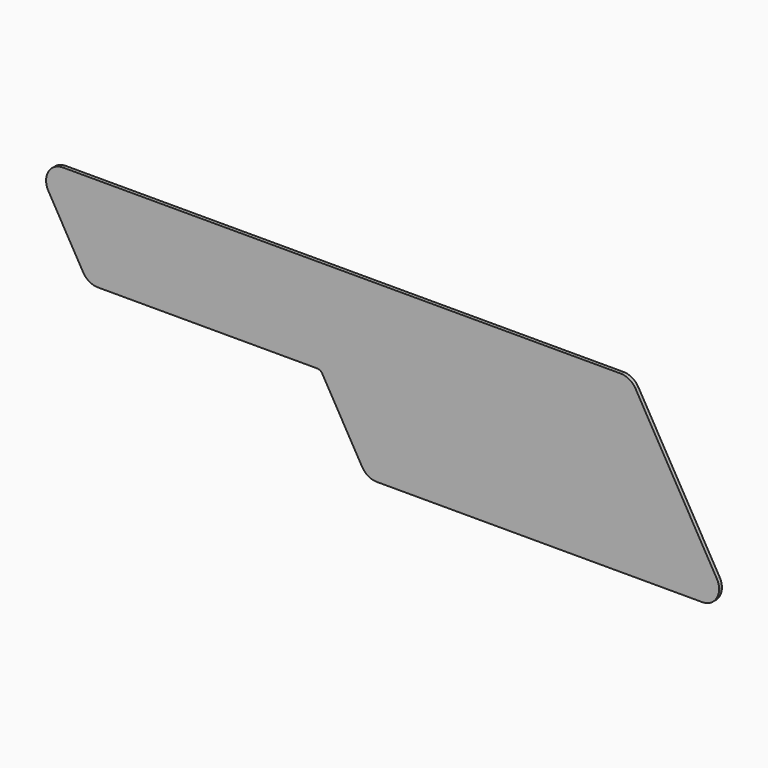
from build123d import *

# Parameters (mm, degrees)
F0_R     = 9.4
F1_DEPTH = 3
F2_R     = 9.4
F3_DEPTH = 3
F4_R     = 5


with BuildPart() as f1:
    # F0 (on Front) → F1 (new body)
    with BuildSketch(Plane.XZ):
        Circle(F0_R)
        with Locations((9.9, -17.147303)):
            Circle(F0_R)
        with Locations((19.8, -34.294606)):
            Circle(F0_R)
        with Locations((29.7, -51.441909)):
            Circle(F0_R)
        with Locations((19.8, 0)):
            Circle(F0_R)
        with Locations((29.7, -17.147303)):
            Circle(F0_R)
        with Locations((39.6, -34.294606)):
            Circle(F0_R)
        with Locations((49.5, -51.441909)):
            Circle(F0_R)
        with Locations((39.6, 0)):
            Circle(F0_R)
        with Locations((49.5, -17.147303)):
            Circle(F0_R)
        with Locations((59.4, -34.294606)):
            Circle(F0_R)
        with Locations((69.3, -51.441909)):
            Circle(F0_R)
        with Locations((59.4, 0)):
            Circle(F0_R)
        with Locations((69.3, -17.147303)):
            Circle(F0_R)
        with Locations((79.2, -34.294606)):
            Circle(F0_R)
        with Locations((89.1, -51.441909)):
            Circle(F0_R)
        with Locations((79.2, 0)):
            Circle(F0_R)
        with Locations((89.1, -17.147303)):
            Circle(F0_R)
        with Locations((99, -34.294606)):
            Circle(F0_R)
        with Locations((108.9, -51.441909)):
            Circle(F0_R)
        with Locations((99, 0)):
            Circle(F0_R)
        with Locations((108.9, -17.147303)):
            Circle(F0_R)
        with Locations((118.8, -34.294606)):
            Circle(F0_R)
        with Locations((128.7, -51.441909)):
            Circle(F0_R)
        with Locations((118.8, 0)):
            Circle(F0_R)
        with Locations((128.7, -17.147303)):
            Circle(F0_R)
        with Locations((138.6, -34.294606)):
            Circle(F0_R)
        with Locations((148.5, -51.441909)):
            Circle(F0_R)
        with Locations((138.6, 0)):
            Circle(F0_R)
        with Locations((148.5, -17.147303)):
            Circle(F0_R)
        with Locations((158.4, -34.294606)):
            Circle(F0_R)
        with Locations((168.3, -51.441909)):
            Circle(F0_R)
        with Locations((158.4, 0)):
            Circle(F0_R)
        with Locations((168.3, -17.147303)):
            Circle(F0_R)
        with Locations((178.2, -34.294606)):
            Circle(F0_R)
        with Locations((188.1, -51.441909)):
            Circle(F0_R)
        with Locations((178.2, 0)):
            Circle(F0_R)
        with Locations((188.1, -17.147303)):
            Circle(F0_R)
        with Locations((198, -34.294606)):
            Circle(F0_R)
        with Locations((207.9, -51.441909)):
            Circle(F0_R)
        with Locations((198, 0)):
            Circle(F0_R)
        with Locations((207.9, -17.147303)):
            Circle(F0_R)
        with Locations((217.8, -34.294606)):
            Circle(F0_R)
        with Locations((227.7, -51.441909)):
            Circle(F0_R)
        with Locations((217.8, 0)):
            Circle(F0_R)
        with Locations((227.7, -17.147303)):
            Circle(F0_R)
        with Locations((237.6, -34.294606)):
            Circle(F0_R)
        with Locations((247.5, -51.441909)):
            Circle(F0_R)
        with Locations((237.6, 0)):
            Circle(F0_R)
        with Locations((247.5, -17.147303)):
            Circle(F0_R)
        with Locations((257.4, -34.294606)):
            Circle(F0_R)
        with Locations((267.3, -51.441909)):
            Circle(F0_R)
        with Locations((257.4, 0)):
            Circle(F0_R)
        with Locations((267.3, -17.147303)):
            Circle(F0_R)
        with Locations((277.2, -34.294606)):
            Circle(F0_R)
        with Locations((287.1, -51.441909)):
            Circle(F0_R)
        with Locations((277.2, 0)):
            Circle(F0_R)
        with Locations((287.1, -17.147303)):
            Circle(F0_R)
        with Locations((297, -34.294606)):
            Circle(F0_R)
        with Locations((306.9, -51.441909)):
            Circle(F0_R)
        with Locations((297, 0)):
            Circle(F0_R)
        with Locations((306.9, -17.147303)):
            Circle(F0_R)
        with Locations((316.8, -34.294606)):
            Circle(F0_R)
        with Locations((326.7, -51.441909)):
            Circle(F0_R)
        with Locations((316.8, 0)):
            Circle(F0_R)
        with Locations((326.7, -17.147303)):
            Circle(F0_R)
        with Locations((336.6, -34.294606)):
            Circle(F0_R)
        with Locations((346.5, -51.441909)):
            Circle(F0_R)
        with Locations((336.6, 0)):
            Circle(F0_R)
        with Locations((346.5, -17.147303)):
            Circle(F0_R)
        with Locations((356.4, -34.294606)):
            Circle(F0_R)
        with Locations((366.3, -51.441909)):
            Circle(F0_R)
        with Locations((356.4, 0)):
            Circle(F0_R)
        with Locations((366.3, -17.147303)):
            Circle(F0_R)
        with Locations((376.2, -34.294606)):
            Circle(F0_R)
        with Locations((386.1, -51.441909)):
            Circle(F0_R)
        with Locations((376.2, 0)):
            Circle(F0_R)
        with Locations((386.1, -17.147303)):
            Circle(F0_R)
        with Locations((396, -34.294606)):
            Circle(F0_R)
        with Locations((405.9, -51.441909)):
            Circle(F0_R)
        with Locations((396, 0)):
            Circle(F0_R)
        with Locations((405.9, -17.147303)):
            Circle(F0_R)
        with Locations((415.8, -34.294606)):
            Circle(F0_R)
        with Locations((425.7, -51.441909)):
            Circle(F0_R)
        with Locations((415.8, 0)):
            Circle(F0_R)
        with Locations((425.7, -17.147303)):
            Circle(F0_R)
        with Locations((435.6, -34.294606)):
            Circle(F0_R)
        with Locations((445.5, -51.441909)):
            Circle(F0_R)
        with Locations((435.6, 0)):
            Circle(F0_R)
        with Locations((445.5, -17.147303)):
            Circle(F0_R)
        with Locations((455.4, -34.294606)):
            Circle(F0_R)
        with Locations((465.3, -51.441909)):
            Circle(F0_R)
        with Locations((455.4, 0)):
            Circle(F0_R)
        with Locations((465.3, -17.147303)):
            Circle(F0_R)
        with Locations((475.2, -34.294606)):
            Circle(F0_R)
        with Locations((485.1, -51.441909)):
            Circle(F0_R)
        with Locations((475.2, 0)):
            Circle(F0_R)
        with Locations((485.1, -17.147303)):
            Circle(F0_R)
        with Locations((495, -34.294606)):
            Circle(F0_R)
        with Locations((504.9, -51.441909)):
            Circle(F0_R)
        with Locations((237.6, -68.589212)):
            Circle(F0_R)
        with Locations((247.5, -85.736515)):
            Circle(F0_R)
        with Locations((257.4, -102.883818)):
            Circle(F0_R)
        with Locations((267.3, -120.031121)):
            Circle(F0_R)
        with Locations((257.4, -68.589212)):
            Circle(F0_R)
        with Locations((267.3, -85.736515)):
            Circle(F0_R)
        with Locations((277.2, -102.883818)):
            Circle(F0_R)
        with Locations((287.1, -120.031121)):
            Circle(F0_R)
        with Locations((277.2, -68.589212)):
            Circle(F0_R)
        with Locations((287.1, -85.736515)):
            Circle(F0_R)
        with Locations((297, -102.883818)):
            Circle(F0_R)
        with Locations((306.9, -120.031121)):
            Circle(F0_R)
        with Locations((297, -68.589212)):
            Circle(F0_R)
        with Locations((306.9, -85.736515)):
            Circle(F0_R)
        with Locations((316.8, -102.883818)):
            Circle(F0_R)
        with Locations((326.7, -120.031121)):
            Circle(F0_R)
        with Locations((316.8, -68.589212)):
            Circle(F0_R)
        with Locations((326.7, -85.736515)):
            Circle(F0_R)
        with Locations((336.6, -102.883818)):
            Circle(F0_R)
        with Locations((346.5, -120.031121)):
            Circle(F0_R)
        with Locations((336.6, -68.589212)):
            Circle(F0_R)
        with Locations((346.5, -85.736515)):
            Circle(F0_R)
        with Locations((356.4, -102.883818)):
            Circle(F0_R)
        with Locations((366.3, -120.031121)):
            Circle(F0_R)
        with Locations((356.4, -68.589212)):
            Circle(F0_R)
        with Locations((366.3, -85.736515)):
            Circle(F0_R)
        with Locations((376.2, -102.883818)):
            Circle(F0_R)
        with Locations((386.1, -120.031121)):
            Circle(F0_R)
        with Locations((376.2, -68.589212)):
            Circle(F0_R)
        with Locations((386.1, -85.736515)):
            Circle(F0_R)
        with Locations((396, -102.883818)):
            Circle(F0_R)
        with Locations((405.9, -120.031121)):
            Circle(F0_R)
        with Locations((396, -68.589212)):
            Circle(F0_R)
        with Locations((405.9, -85.736515)):
            Circle(F0_R)
        with Locations((415.8, -102.883818)):
            Circle(F0_R)
        with Locations((425.7, -120.031121)):
            Circle(F0_R)
        with Locations((415.8, -68.589212)):
            Circle(F0_R)
        with Locations((425.7, -85.736515)):
            Circle(F0_R)
        with Locations((435.6, -102.883818)):
            Circle(F0_R)
        with Locations((445.5, -120.031121)):
            Circle(F0_R)
        with Locations((435.6, -68.589212)):
            Circle(F0_R)
        with Locations((445.5, -85.736515)):
            Circle(F0_R)
        with Locations((455.4, -102.883818)):
            Circle(F0_R)
        with Locations((465.3, -120.031121)):
            Circle(F0_R)
        with Locations((455.4, -68.589212)):
            Circle(F0_R)
        with Locations((465.3, -85.736515)):
            Circle(F0_R)
        with Locations((475.2, -102.883818)):
            Circle(F0_R)
        with Locations((485.1, -120.031121)):
            Circle(F0_R)
        with Locations((475.2, -68.589212)):
            Circle(F0_R)
        with Locations((485.1, -85.736515)):
            Circle(F0_R)
        with Locations((495, -102.883818)):
            Circle(F0_R)
        with Locations((504.9, -120.031121)):
            Circle(F0_R)
        with Locations((495, -68.589212)):
            Circle(F0_R)
        with Locations((504.9, -85.736515)):
            Circle(F0_R)
        with Locations((514.8, -102.883818)):
            Circle(F0_R)
        with Locations((524.7, -120.031121)):
            Circle(F0_R)
        with Locations((514.8, -68.589212)):
            Circle(F0_R)
        with Locations((524.7, -85.736515)):
            Circle(F0_R)
        with Locations((534.6, -102.883818)):
            Circle(F0_R)
        with Locations((544.5, -120.031121)):
            Circle(F0_R)
    extrude(amount=F1_DEPTH)


with BuildPart() as f3:
    # F2 (on face) → F3 (new body)
    with BuildSketch(Plane.XZ.offset(3)):
        with BuildLine():
            ThreePointArc((-12.470766, -7.2), (3.726994, -13.909332), (14.4, 0))
            ThreePointArc((14.4, 0), (10.182338, 10.182338), (0, 14.4))
            ThreePointArc((0, 14.4), (-12.470766, 7.2), (-12.470766, -7.2))
        make_face()
        Circle(F2_R, mode=Mode.SUBTRACT)
        with BuildLine():
            ThreePointArc((0, 14.4), (10.182338, 10.182338), (14.4, 0))
            ThreePointArc((14.4, 0), (3.726994, -13.909332), (-12.470766, -7.2))
            Line((-12.470766, -7.2), (17.229234, -58.641909))
            ThreePointArc((17.229234, -58.641909), (25.973006, -37.532577), (44.1, -51.441909))
            ThreePointArc((44.1, -51.441909), (39.882338, -61.624247), (29.7, -65.841909))
            Line((29.7, -65.841909), (219.386156, -65.841909))
            Line((219.386156, -65.841909), (254.829234, -127.231121))
            ThreePointArc((254.829234, -127.231121), (263.573006, -106.121789), (281.7, -120.031121))
            ThreePointArc((281.7, -120.031121), (277.482338, -130.213459), (267.3, -134.431121))
            Line((267.3, -134.431121), (544.5, -134.431121))
            ThreePointArc((544.5, -134.431121), (532.029234, -112.831121), (556.970766, -112.831121))
            Line((556.970766, -112.831121), (487.670766, 7.2))
            ThreePointArc((487.670766, 7.2), (489.109332, 3.726994), (489.6, 0))
            ThreePointArc((489.6, 0), (465.017662, -10.182338), (475.2, 14.4))
            Line((475.2, 14.4), (0, 14.4))
        make_face()
        with Locations((237.6, -68.589212)):
            Circle(F2_R, mode=Mode.SUBTRACT)
        with Locations((227.7, -51.441909)):
            Circle(F2_R, mode=Mode.SUBTRACT)
        with BuildLine():
            ThreePointArc((487.670766, 7.2), (482.4, 12.470766), (475.2, 14.4))
            ThreePointArc((475.2, 14.4), (465.017662, -10.182338), (489.6, 0))
            ThreePointArc((489.6, 0), (489.109332, 3.726994), (487.670766, 7.2))
        make_face()
        with Locations((475.2, 0)):
            Circle(F2_R, mode=Mode.SUBTRACT)
        with BuildLine():
            ThreePointArc((44.1, -51.441909), (25.973006, -37.532577), (17.229234, -58.641909))
            ThreePointArc((17.229234, -58.641909), (22.5, -63.912675), (29.7, -65.841909))
            ThreePointArc((29.7, -65.841909), (39.882338, -61.624247), (44.1, -51.441909))
        make_face()
        with Locations((29.7, -51.441909)):
            Circle(F2_R, mode=Mode.SUBTRACT)
        with BuildLine():
            ThreePointArc((558.9, -120.031121), (558.409332, -116.304127), (556.970766, -112.831121))
            ThreePointArc((556.970766, -112.831121), (532.029234, -112.831121), (544.5, -134.431121))
            ThreePointArc((544.5, -134.431121), (554.682338, -130.213459), (558.9, -120.031121))
        make_face()
        with Locations((544.5, -120.031121)):
            Circle(F2_R, mode=Mode.SUBTRACT)
        with BuildLine():
            ThreePointArc((281.7, -120.031121), (263.573006, -106.121789), (254.829234, -127.231121))
            ThreePointArc((254.829234, -127.231121), (260.1, -132.501887), (267.3, -134.431121))
            ThreePointArc((267.3, -134.431121), (277.482338, -130.213459), (281.7, -120.031121))
        make_face()
        with Locations((267.3, -120.031121)):
            Circle(F2_R, mode=Mode.SUBTRACT)
        with Locations((475.2, 0)):
            Circle(F2_R)
        Circle(F2_R)
        with Locations((29.7, -51.441909)):
            Circle(F2_R)
        with Locations((227.7, -51.441909)):
            Circle(F2_R)
        with Locations((237.6, -68.589212)):
            Circle(F2_R)
        with Locations((267.3, -120.031121)):
            Circle(F2_R)
        with Locations((544.5, -120.031121)):
            Circle(F2_R)
    extrude(amount=F3_DEPTH)

    # F4
    f4_edges = [f3.edges().sort_by_distance(p)[0] for p in [
        (219.386156, -4.5, -65.841909),
    ]]
    fillet(f4_edges, radius=F4_R)


solid = Compound([f1.part, f3.part])
